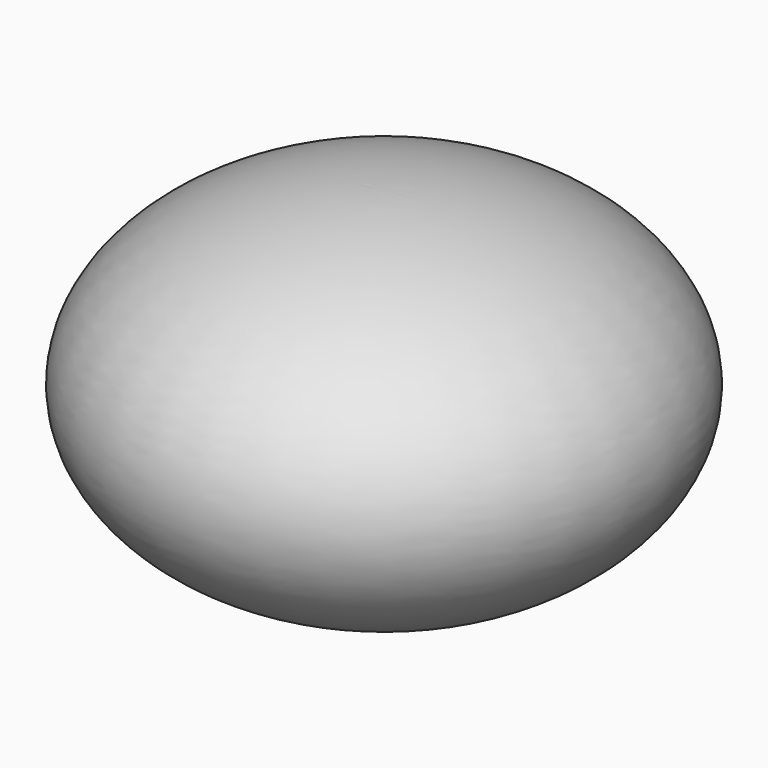
from build123d import *


with BuildPart() as f1:
    # F0 (on Front) → F1 (revolve)
    with BuildSketch(Plane.XZ):
        with BuildLine():
            Line((0, -225), (0, 225))
            add(Edge.make_bspline(
                [(0, 225), (-350, 225), (-350, 0), (-350, -225), (0, -225)],
                knots=[4.7123889804, 4.7123889804, 4.7123889804, 6.2831853072, 6.2831853072, 7.853981634, 7.853981634, 7.853981634], degree=2, weights=[1, 0.7071067812, 1, 0.7071067812, 1]))
        make_face()
    revolve(axis=Axis((0, 0, 0), (0, 0, -1)))


solid = f1.part
